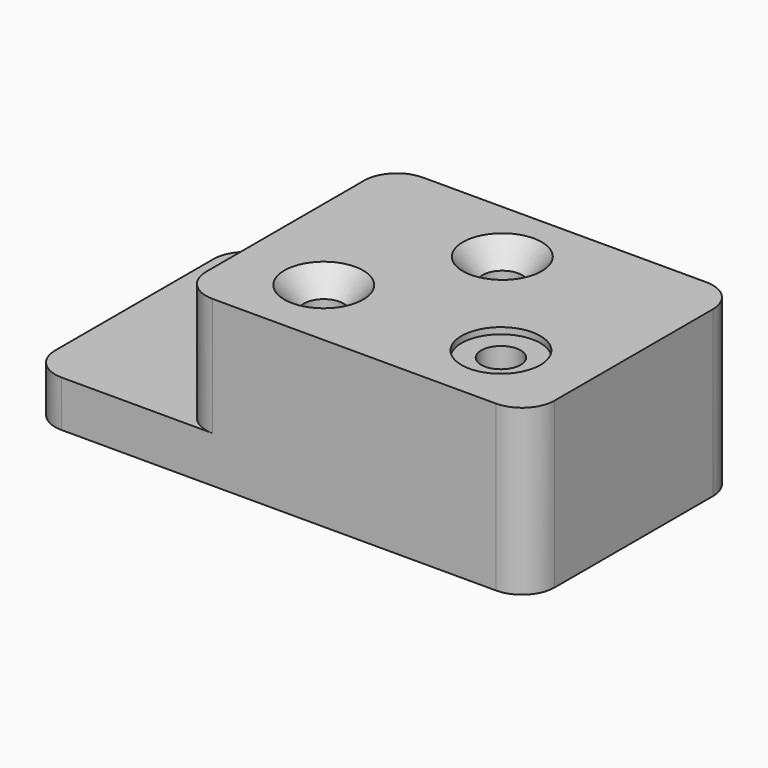
from build123d import *

# Parameters (mm, degrees)
F0_W            = 72.898
F0_H            = 127
F0_W_2          = 168.402
F1_DEPTH        = 22.352
F2_DEPTH        = 79.502
F3_R            = 9.525
F4_DEPTH        = 79.502
F3_R_2          = 19.05
F5_DEPTH        = 3.048
F6_R            = 9.525
F7_DEPTH        = 79.503
F8_D            = 19.05
F8_CSINK_D      = 38.1
F8_CSINK_ANGLE  = 82
F9_D            = 19.05
F9_CSINK_D      = 38.1
F9_CSINK_ANGLE  = 82
F11_D           = 19.05
F11_CBORE_D     = 38.1
F11_CBORE_DEPTH = 3.048
F12_R           = 15.748


with BuildPart() as f1:
    # F0 (on Top) → F1 (new body)
    with BuildSketch(Plane.XY):
        with Locations((-36.449, -3.705154)):
            Rectangle(F0_W, F0_H)
        with Locations((84.201, -3.705154)):
            Rectangle(F0_W_2, F0_H)
    extrude(amount=F1_DEPTH)

    # F0 (on Top) → F2 (join)
    with BuildSketch(Plane.XY):
        with Locations((84.201, -3.705154)):
            Rectangle(F0_W_2, F0_H)
    extrude(amount=F2_DEPTH)

    # F3 (on face) → F4 (cut, through all)
    with BuildSketch(Plane.XY.offset(79.502)):
        with Locations((127, -32.153154)):
            Circle(F3_R)
    extrude(amount=-F4_DEPTH, mode=Mode.SUBTRACT)

    # F3 (on face) → F5 (cut)
    with BuildSketch(Plane.XY.offset(79.502)):
        with Locations((127, -32.153154)):
            Circle(F3_R_2)
        with Locations((127, -32.153154)):
            Circle(F3_R, mode=Mode.SUBTRACT)
    extrude(amount=-F5_DEPTH, mode=Mode.SUBTRACT)

    # F6 (on face) → F7 (cut, through all)
    with BuildSketch(Plane.XY.offset(79.502)):
        with Locations((79.502, 28.044846)):
            Circle(F6_R)
        with Locations((41.402, -32.153154)):
            Circle(F6_R)
    extrude(amount=-F7_DEPTH, mode=Mode.SUBTRACT)

    # F8 (through all)
    with Locations(Plane.XY.offset(79.502)):
        with Locations((79.502, 28.044846)):
            CounterSinkHole(F8_D / 2, F8_CSINK_D / 2, counter_sink_angle=F8_CSINK_ANGLE)

    # F9 (through all)
    with Locations(Plane.XY.offset(79.502)):
        with Locations((41.402, -32.153154)):
            CounterSinkHole(F9_D / 2, F9_CSINK_D / 2, counter_sink_angle=F9_CSINK_ANGLE)

    # F11 (through all)
    with Locations(Plane.XY.offset(22.352)):
        with Locations((-37.846, 28.044846)):
            CounterBoreHole(F11_D / 2, F11_CBORE_D / 2, F11_CBORE_DEPTH)

    # F12
    f12_edges = [f1.edges().sort_by_distance(p)[0] for p in [
        (0, -67.205154, 50.927),
        (-72.898, -67.205154, 11.176),
        (0, 59.794846, 50.927),
        (-72.898, 59.794846, 11.176),
        (168.402, 59.794846, 39.751),
        (168.402, -67.205154, 39.751),
    ]]
    fillet(f12_edges, radius=F12_R)


solid = f1.part
